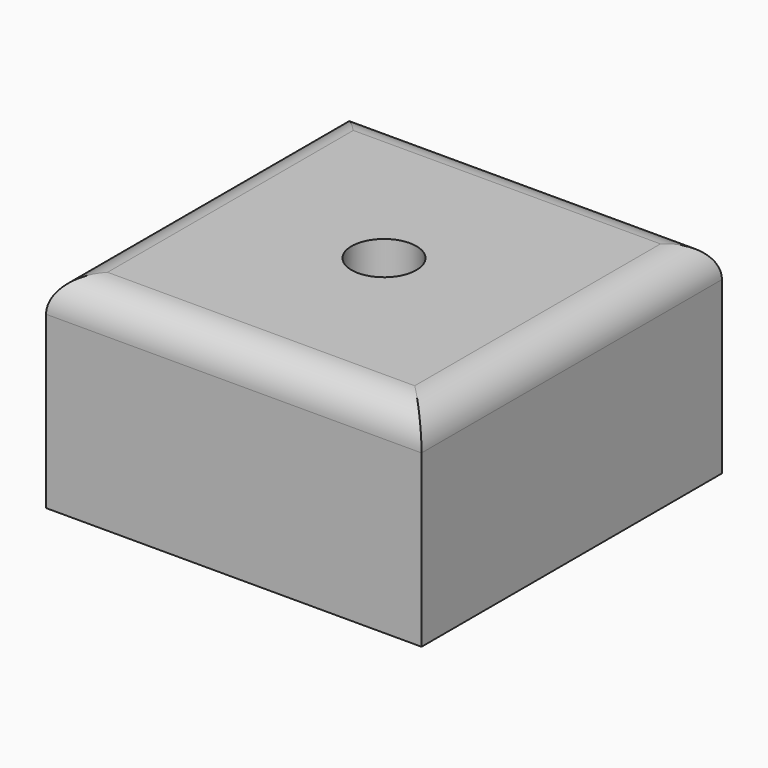
from build123d import *

# Parameters (mm, degrees)
F0_W     = 55
F0_H     = 55
F1_DEPTH = 4
F2_W     = 55
F2_H     = 55
F2_R     = 4.75
F3_DEPTH = 26
F4_R     = 5


with BuildPart() as f1:
    # F0 (on Top) → F1 (new body)
    with BuildSketch(Plane.XY):
        Rectangle(F0_W, F0_H)
    extrude(amount=F1_DEPTH)

    # F2 (on face) → F3 (join)
    with BuildSketch(Plane.XY.offset(4)):
        Rectangle(F2_W, F2_H)
        Circle(F2_R, mode=Mode.SUBTRACT)
    extrude(amount=F3_DEPTH)

    # F4
    f4_edges = [f1.edges().sort_by_distance(p)[0] for p in [
        (0, 27.5, 30),
        (-27.5, 0, 30),
        (0, -27.5, 30),
        (27.5, 0, 30),
    ]]
    fillet(f4_edges, radius=F4_R)


solid = f1.part
